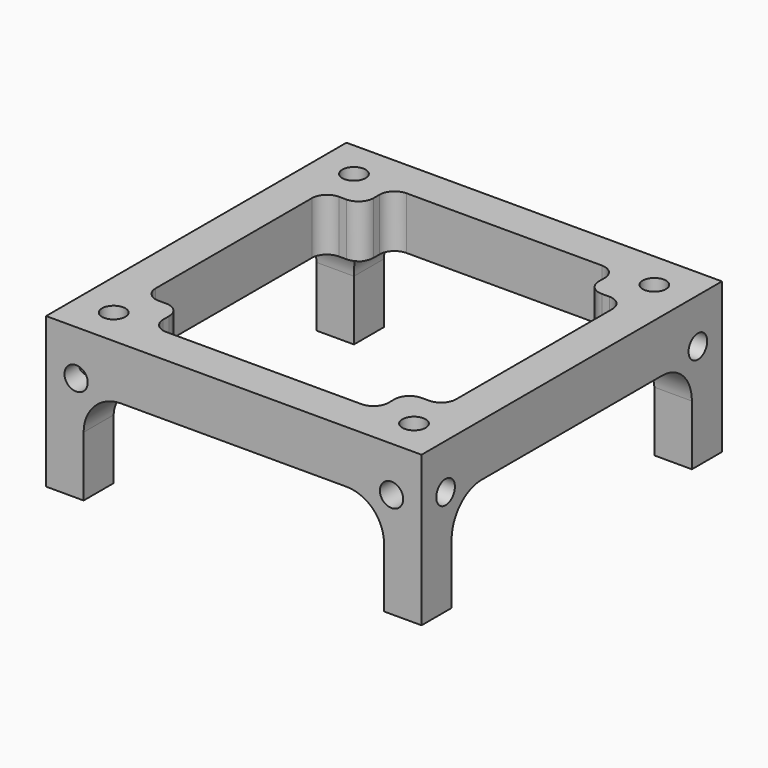
from build123d import *

# Parameters (mm, degrees)
SKETCH_W        = 50
SKETCH_H        = 50
PAD_DEPTH       = 20
POCKET_DEPTH    = 20.001
POCKET001_DEPTH = 50.001
POCKET002_DEPTH = 50.001
SKETCH004_R     = 1.55
POCKET003_DEPTH = 4
SKETCH006_R     = 1.55
POCKET005_DEPTH = 4
SKETCH007_R     = 1.55
POCKET006_DEPTH = 4
SKETCH008_R     = 1.55
POCKET007_DEPTH = 4
SKETCH009_R     = 1.55
POCKET008_DEPTH = 5


with BuildPart() as part:
    # Sketch → Pad (new body)
    with BuildSketch(Plane.XY):
        Rectangle(SKETCH_W, SKETCH_H)
    extrude(amount=PAD_DEPTH)

    # Sketch001 (on Face6 of Pad) → Pocket (cut, through all)
    with BuildSketch(Plane.XY.offset(20)):
        with BuildLine():
            Line((-18, 15), (-17, 15))
            ThreePointArc((-17, 15), (-15.585786, 15.585786), (-15, 17))
            Line((-15, 17), (-15, 18))
            ThreePointArc((-13, 20), (-14.414214, 19.414214), (-15, 18))
            Line((-13, 20), (13, 20))
            ThreePointArc((15, 18), (14.414214, 19.414214), (13, 20))
            Line((15, 18), (15, 17))
            ThreePointArc((15, 17), (15.585786, 15.585786), (17, 15))
            Line((17, 15), (18, 15))
            ThreePointArc((20, 13), (19.414214, 14.414214), (18, 15))
            Line((20, 13), (20, -13))
            ThreePointArc((18, -15), (19.414214, -14.414214), (20, -13))
            Line((18, -15), (17, -15))
            ThreePointArc((17, -15), (15.585786, -15.585786), (15, -17))
            Line((15, -17), (15, -18))
            ThreePointArc((13, -20), (14.414214, -19.414214), (15, -18))
            Line((13, -20), (-13, -20))
            ThreePointArc((-15, -18), (-14.414214, -19.414214), (-13, -20))
            Line((-15, -18), (-15, -17))
            ThreePointArc((-15, -17), (-15.585786, -15.585786), (-17, -15))
            Line((-17, -15), (-18, -15))
            ThreePointArc((-20, -13), (-19.414214, -14.414214), (-18, -15))
            Line((-20, -13), (-20, 13))
            ThreePointArc((-18, 15), (-19.414214, 14.414214), (-20, 13))
        make_face()
    extrude(amount=-POCKET_DEPTH, mode=Mode.SUBTRACT)

    # Sketch002 (on Face3 of Pocket) → Pocket001 (cut, through all)
    with BuildSketch(Plane.YZ.offset(25)):
        with BuildLine():
            Line((-15, 13), (15, 13))
            ThreePointArc((20, 8), (18.535534, 11.535534), (15, 13))
            Line((20, 8), (20, 0))
            Line((20, 0), (-20, 0))
            Line((-20, 0), (-20, 8))
            ThreePointArc((-15, 13), (-18.535534, 11.535534), (-20, 8))
        make_face()
    extrude(amount=-POCKET001_DEPTH, mode=Mode.SUBTRACT)

    # Sketch003 (on Face6 of Pocket) → Pocket002 (cut, through all)
    with BuildSketch(Plane.XZ.offset(25)):
        with BuildLine():
            Line((-15, 13), (15, 13))
            ThreePointArc((20, 8), (18.535534, 11.535534), (15, 13))
            Line((20, 8), (20, 0))
            Line((20, 0), (-20, 0))
            Line((-20, 0), (-20, 8))
            ThreePointArc((-15, 13), (-18.535534, 11.535534), (-20, 8))
        make_face()
    extrude(amount=-POCKET002_DEPTH, mode=Mode.SUBTRACT)

    # Sketch004 (on Face11 of Pocket002) → Pocket003 (cut)
    with BuildSketch(Plane(origin=(-25, 0, 0), x_dir=(0, -1, 0), z_dir=(-1, 0, 0))):
        with Locations((-21, 14)):
            Circle(SKETCH004_R)
        with Locations((21, 14)):
            Circle(SKETCH004_R)
    extrude(amount=-POCKET003_DEPTH, mode=Mode.SUBTRACT)

    # Sketch006 → Pocket005 (cut)
    with BuildSketch(Plane.YZ.offset(25)):
        with Locations((-21, 14)):
            Circle(SKETCH006_R)
        with Locations((21, 14)):
            Circle(SKETCH006_R)
    extrude(amount=-POCKET005_DEPTH, mode=Mode.SUBTRACT)

    # Sketch007 (on Face1 of Pocket005) → Pocket006 (cut)
    with BuildSketch(Plane(origin=(0, 25, 0), x_dir=(-1, 0, 0), z_dir=(0, 1, 0))):
        with Locations((-21, 14)):
            Circle(SKETCH007_R)
        with Locations((21, 14)):
            Circle(SKETCH007_R)
    extrude(amount=-POCKET006_DEPTH, mode=Mode.SUBTRACT)

    # Sketch008 (on Face16 of Pocket006) → Pocket007 (cut)
    with BuildSketch(Plane.XZ.offset(25)):
        with Locations((-21, 14)):
            Circle(SKETCH008_R)
        with Locations((21, 14)):
            Circle(SKETCH008_R)
    extrude(amount=-POCKET007_DEPTH, mode=Mode.SUBTRACT)

    # Sketch009 (on Face5 of Pocket007) → Pocket008 (cut)
    with BuildSketch(Plane.XY.offset(20)):
        with Locations((-20, 20)):
            Circle(SKETCH009_R)
        with Locations((20, 20)):
            Circle(SKETCH009_R)
        with Locations((20, -20)):
            Circle(SKETCH009_R)
        with Locations((-20, -20)):
            Circle(SKETCH009_R)
    extrude(amount=-POCKET008_DEPTH, mode=Mode.SUBTRACT)


solid = part.part
